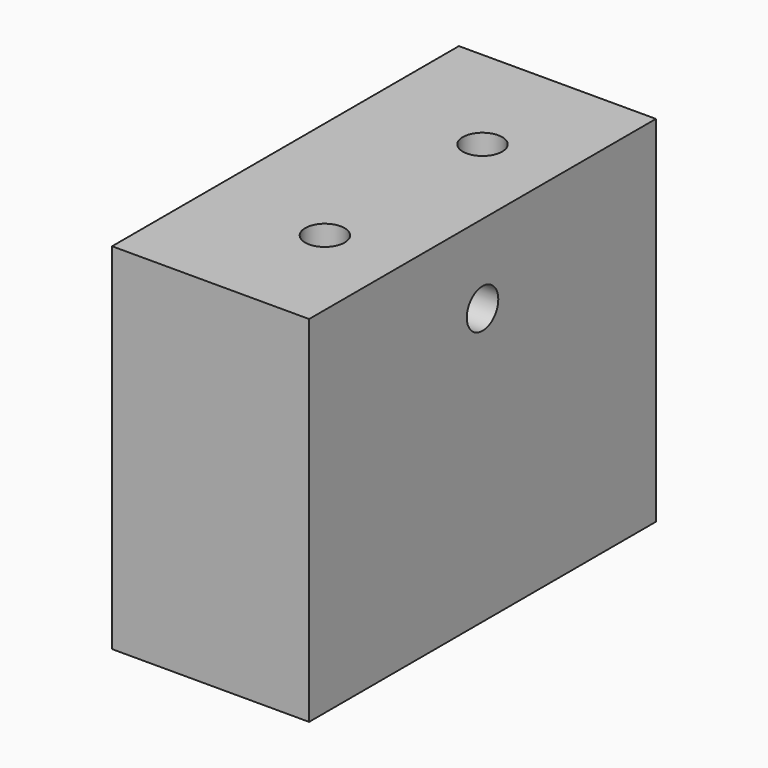
from build123d import *

# Parameters (mm, degrees)
CYLINDER001_R     = 1
CYLINDER001_DEPTH = 50
CYLINDER_R        = 1
CYLINDER_DEPTH    = 50
ARRAY_Y_COUNT     = 2
ARRAY_Y_PITCH     = 10
BOX_W             = 10
BOX_H             = 22
BOX_DEPTH         = 18


with BuildPart() as cylinder001:
    # Cylinder001 → Cylinder001 (new body)
    with BuildSketch(Plane(origin=(-10, 11, 14), x_dir=(0, 0, -1), z_dir=(1, 0, 0))):
        Circle(CYLINDER001_R)
    extrude(amount=CYLINDER001_DEPTH)


with BuildPart() as fusion:
    # Cylinder → Cylinder (new body)
    with BuildSketch(Plane.XY.offset(-10)):
        Circle(CYLINDER_R)
    extrude(amount=CYLINDER_DEPTH)

    # Array Y: Fusion ×2


with BuildPart() as fusion_1:
    add(fusion.part)
    with Locations(*[(0, i * ARRAY_Y_PITCH, 0) for i in range(1, ARRAY_Y_COUNT)]):
        add(fusion.part)


with BuildPart() as fusion_2:
    # Array placement: moved
    add(fusion_1.part.moved(Location((6, 6, 0))))

    # Fusion: union Cylinder001
    add(cylinder001.part)


with BuildPart() as cut:
    # Box → Box (new body)
    with BuildSketch(Plane.XY):
        with Locations((5, 11)):
            Rectangle(BOX_W, BOX_H)
    extrude(amount=BOX_DEPTH)

    # Cut: cut Fusion
    add(fusion_2.part, mode=Mode.SUBTRACT)


solid = cut.part
